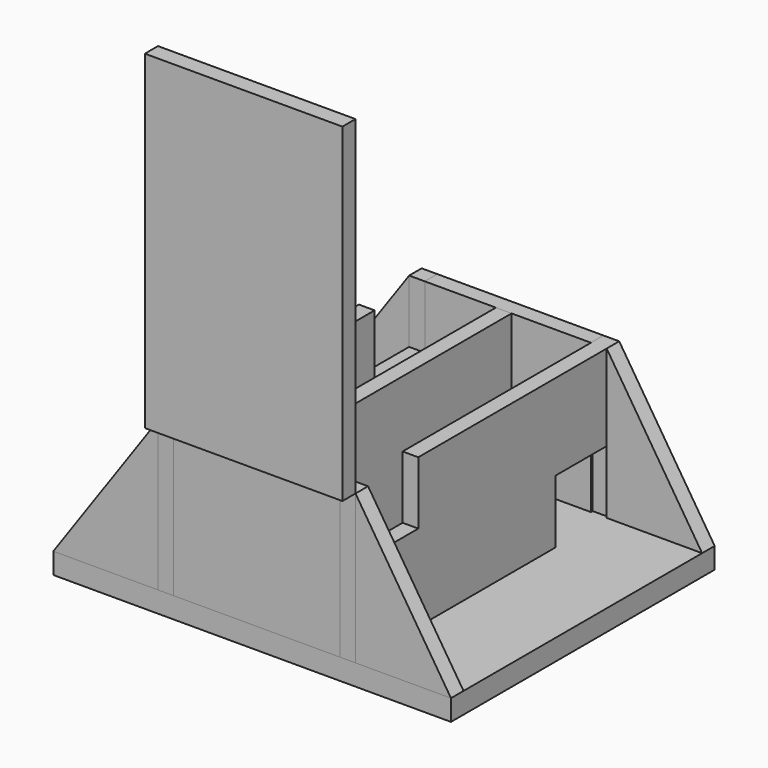
from build123d import *

# Parameters (mm, degrees)
F0_W      = 482.6
F0_H      = 400.05
F1_DEPTH  = 25.4
F3_DEPTH  = 180.975
F2_W      = 19.05
F2_H      = 361.95
F2_W_2    = 127
F2_H_2    = 19.05
F4_DEPTH  = 180.975
F2_W_3    = 115.852443859
F6_DEPTH  = 400.051
F8_DEPTH  = 400.051
F9_W      = 239.7506
F9_H      = 19.883907908
F10_DEPTH = 400.05
F11_W     = 19.05
F11_H     = 76.2
F12_DEPTH = 76.2
F13_W     = 80.0712406635
F13_H     = 76.7482050419
F14_DEPTH = 25.4
F15_W     = 25.4
F15_H     = 76.2
F16_DEPTH = 76.2


with BuildPart() as f1:
    # F0 (on Top) → F1 (new body)
    with BuildSketch(Plane.XY):
        with Locations((-12.459570542, 41.5053624034)):
            Rectangle(F0_W, F0_H)
    extrude(amount=F1_DEPTH)


with BuildPart() as f3:
    # F2 (on face) → F3 (new body)
    with BuildSketch(Plane.XY.offset(25.4)):
        Polygon((-107.709570542, 241.5303624034), (-126.759570542, 241.5303624034), (-126.759570542, 222.4803624034), (-126.759570542, -139.4696375966), (-126.759570542, -158.5196375966), (-107.709570542, -158.5196375966), (-107.709570542, -139.4696375966), (-107.709570542, 222.4803624034), align=None)
    extrude(amount=F3_DEPTH)

    # F15 (on face) → F16 (cut)
    with BuildSketch(Plane.XY.offset(206.375)):
        with Locations((-120.409570542, 184.3803624034)):
            Rectangle(F15_W, F15_H)
    extrude(amount=-F16_DEPTH, mode=Mode.SUBTRACT)


with BuildPart() as f3b:
    # F2 (on face) → F3, piece 2 (new body)
    with BuildSketch(Plane.XY.offset(25.4)):
        with Locations((-11.9229956776, 41.5053624034)):
            Rectangle(F2_W, F2_H)
    extrude(amount=F3_DEPTH)


with BuildPart() as f3c:
    # F2 (on face) → F3, piece 3 (new body)
    with BuildSketch(Plane.XY.offset(25.4)):
        Polygon((112.987985599, 241.5303624034), (93.937985599, 241.5303624034), (93.937985599, 222.4803624034), (93.937985599, -139.4696375966), (93.937985599, -158.5196375966), (112.987985599, -158.5196375966), (112.987985599, -139.4696375966), (112.987985599, 222.4803624034), align=None)
    extrude(amount=F3_DEPTH)

    # F11 (on face) → F12 (cut)
    with BuildSketch(Plane.XY.offset(206.375)):
        with Locations((103.462985599, -101.3696375966)):
            Rectangle(F11_W, F11_H)
    extrude(amount=-F12_DEPTH, mode=Mode.SUBTRACT)

    # F13 (on face) → F14 (cut)
    with BuildSketch(Plane.YZ.offset(112.987985599)):
        with Locations((185.106664896, 63.7741025209)):
            Rectangle(F13_W, F13_H)
    extrude(amount=-F14_DEPTH, mode=Mode.SUBTRACT)


with BuildPart() as f4:
    # F2 (on face) → F4 (new body)
    with BuildSketch(Plane.XY.offset(25.4)):
        with Locations((-190.259570542, -148.9946375966)):
            Rectangle(F2_W_2, F2_H_2)
    extrude(amount=F4_DEPTH)


with BuildPart() as f4b:
    # F2 (on face) → F4, piece 2 (new body)
    with BuildSketch(Plane.XY.offset(25.4)):
        Polygon((-21.4479956776, -139.4696375966), (-107.709570542, -139.4696375966), (-107.709570542, -158.5196375966), (93.937985599, -158.5196375966), (93.937985599, -139.4696375966), (-2.3979956776, -139.4696375966), align=None)
    extrude(amount=F4_DEPTH)


with BuildPart() as f4c:
    # F2 (on face) → F4, piece 3 (new body)
    with BuildSketch(Plane.XY.offset(25.4)):
        with Locations((170.9142075285, -148.9946375966)):
            Rectangle(F2_W_3, F2_H_2)
    extrude(amount=F4_DEPTH)


with BuildPart() as f4d:
    # F2 (on face) → F4, piece 4 (new body)
    with BuildSketch(Plane.XY.offset(25.4)):
        Polygon((93.937985599, 241.5303624034), (-107.709570542, 241.5303624034), (-107.709570542, 222.4803624034), (-21.4479956776, 222.4803624034), (-2.3979956776, 222.4803624034), (93.937985599, 222.4803624034), align=None)
    extrude(amount=F4_DEPTH)


with BuildPart() as f4e:
    # F2 (on face) → F4, piece 5 (new body)
    with BuildSketch(Plane.XY.offset(25.4)):
        with Locations((170.9142075285, 232.0053624034)):
            Rectangle(F2_W_3, F2_H_2)
    extrude(amount=F4_DEPTH)


with BuildPart() as f4f:
    # F2 (on face) → F4, piece 6 (new body)
    with BuildSketch(Plane.XY.offset(25.4)):
        with Locations((-190.259570542, 232.0053624034)):
            Rectangle(F2_W_2, F2_H_2)
    extrude(amount=F4_DEPTH)


with BuildPart() as f6_tool:
    # F5 (on face) → F6 (new body, through all)
    with BuildSketch(Plane.XZ.offset(158.5196375966)):
        Polygon((-253.759570542, 206.375), (-253.759570542, 25.4), (-126.759570542, 206.375), align=None)
    extrude(amount=-F6_DEPTH)


with BuildPart() as f4_1:
    add(f4.part)

    # F6: cut by f6_tool
    add(f6_tool.part, mode=Mode.SUBTRACT)


with BuildPart() as f4f_1:
    add(f4f.part)

    # F6: cut by f6_tool
    add(f6_tool.part, mode=Mode.SUBTRACT)


with BuildPart() as f8_tool:
    # F7 (on face) → F8 (new body, through all)
    with BuildSketch(Plane.XZ.offset(158.5196375966)):
        Polygon((112.987985599, 206.375), (228.840429458, 25.4), (228.840429458, 206.375), align=None)
    extrude(amount=-F8_DEPTH)


with BuildPart() as f4c_1:
    add(f4c.part)

    # F8: cut by f8_tool
    add(f8_tool.part, mode=Mode.SUBTRACT)


with BuildPart() as f4e_1:
    add(f4e.part)

    # F8: cut by f8_tool
    add(f8_tool.part, mode=Mode.SUBTRACT)


with BuildPart() as f10:
    # F9 (on face) → F10 (new body)
    with BuildSketch(Plane.XY.offset(206.375)):
        with Locations((-6.884270542, -168.4615915506)):
            Rectangle(F9_W, F9_H)
    extrude(amount=F10_DEPTH)


solid = Compound([f1.part, f3.part, f3b.part, f3c.part, f4b.part, f4d.part, f4_1.part, f4f_1.part, f4c_1.part, f4e_1.part, f10.part])
